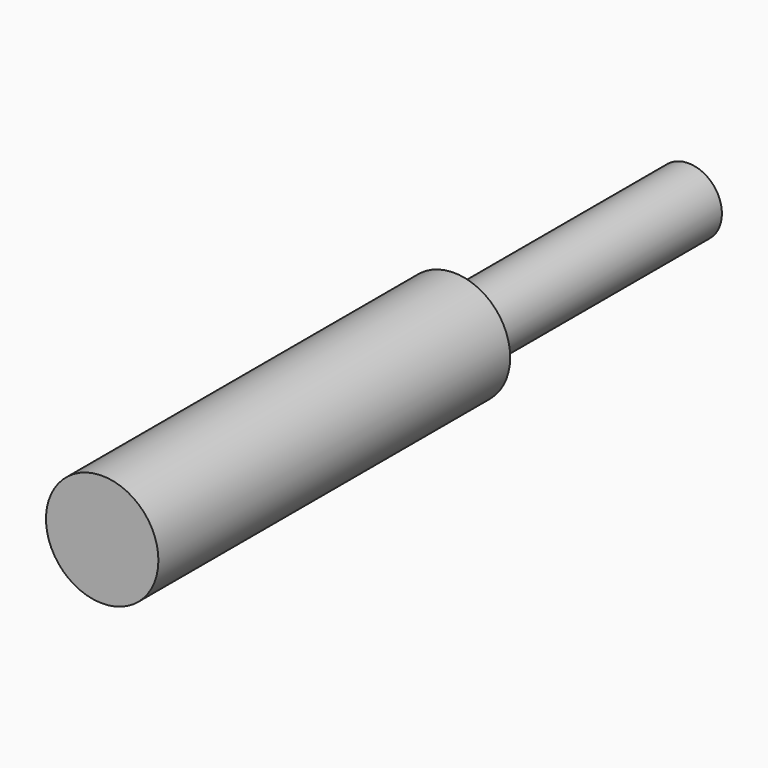
from build123d import *

# Parameters (mm, degrees)
F0_W     = 5.799088
F0_H     = 50.8
F2_R     = 3.25962
F3_DEPTH = 82.296


with BuildPart() as f1:
    # F0 (on Top) → F1 (revolve)
    with BuildSketch(Plane.XY):
        with Locations((2.899544, -25.4)):
            Rectangle(F0_W, F0_H)
        Polygon((5.799088, -50.8), (0, -50.8), (0, -127), (9.742463, -127), (9.742463, -50.8), align=None)
    revolve(axis=Axis((0, -63.5, 0), (0, -1, 0)))


with BuildPart() as f3:
    # F2 (on Front) → F3 (new body)
    with BuildSketch(Plane.XZ):
        Circle(F2_R)
    extrude(amount=F3_DEPTH)


with BuildPart() as f1_1:
    add(f1.part)

    # F4: cut F3
    add(f3.part, mode=Mode.SUBTRACT)


solid = f1_1.part
